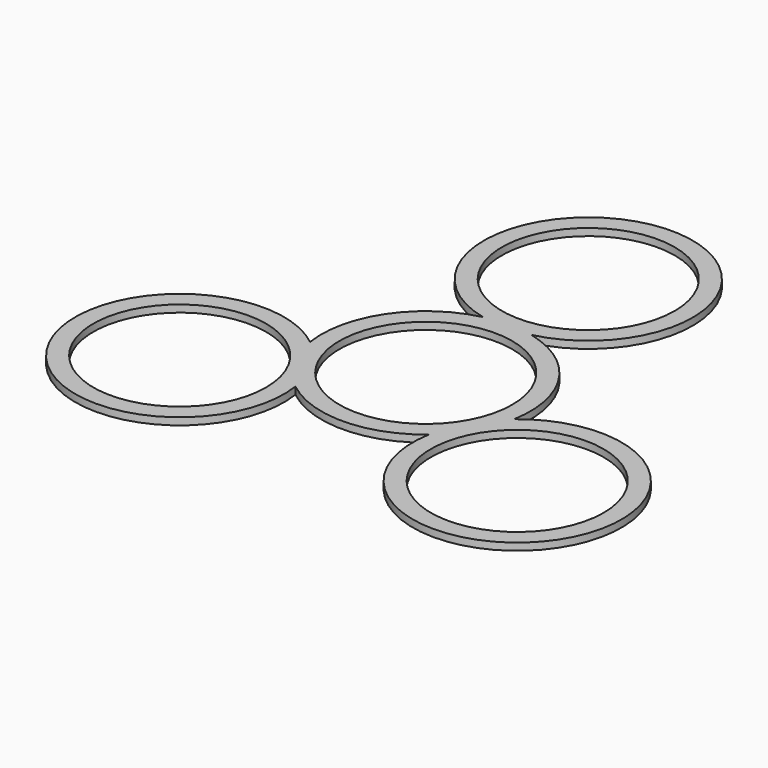
from build123d import *

# Parameters (mm, degrees)
F0_R     = 11
F1_DEPTH = 1
F2_R     = 12
F3_DEPTH = 25


with BuildPart() as f1:
    # F0 (on Top) → F1 (new body)
    with BuildSketch(Plane.XY):
        with BuildLine():
            ThreePointArc((-0.178199, 8.828474), (-7.956373, -9.949701), (10.821801, -2.171526))
            ThreePointArc((10.821801, -2.171526), (7.599976, 5.606648), (-0.178199, 8.828474))
        make_face()
        with BuildLine():
            ThreePointArc((-14.515293, -4.33895), (-36.118253, -22.921526), (-9.22379, -13.504102))
            ThreePointArc((-9.22379, -13.504102), (-0.002001, -16.670456), (9.140118, -13.280935))
            ThreePointArc((9.140118, -13.280935), (35.977676, -23.04613), (14.10199, -4.686721))
            ThreePointArc((14.10199, -4.686721), (11.937225, 5.795061), (3.171414, 11.936276))
            ThreePointArc((3.171414, 11.936276), (-0.178199, 40.544079), (-3.527811, 11.936276))
            ThreePointArc((-3.527811, 11.936276), (-12.195921, 5.941694), (-14.515293, -4.33895))
        make_face()
        with Locations((-23.560884, -15.671526)):
            Circle(F0_R, mode=Mode.SUBTRACT)
        with BuildLine():
            ThreePointArc((-0.178199, 8.828474), (7.599976, 5.606648), (10.821801, -2.171526))
            ThreePointArc((10.821801, -2.171526), (-7.956373, -9.949701), (-0.178199, 8.828474))
        make_face(mode=Mode.SUBTRACT)
        with Locations((23.420307, -15.79613)):
            Circle(F0_R, mode=Mode.SUBTRACT)
        with BuildLine():
            ThreePointArc((-0.178199, 15.044079), (-7.956373, 33.822254), (10.821801, 26.044079))
            ThreePointArc((10.821801, 26.044079), (7.599976, 18.265904), (-0.178199, 15.044079))
        make_face(mode=Mode.SUBTRACT)
    extrude(amount=F1_DEPTH)

    # F2 (on face) → F3 (cut)
    with BuildSketch(Plane.XY.offset(1)):
        with Locations((-0.178199, 26.044079)):
            Circle(F2_R)
        with Locations((-0.178199, -2.171526)):
            Circle(F2_R)
        with Locations((23.420307, -15.79613)):
            Circle(F2_R)
        with Locations((-23.560884, -15.671526)):
            Circle(F2_R)
    extrude(amount=-F3_DEPTH, mode=Mode.SUBTRACT)


solid = f1.part
